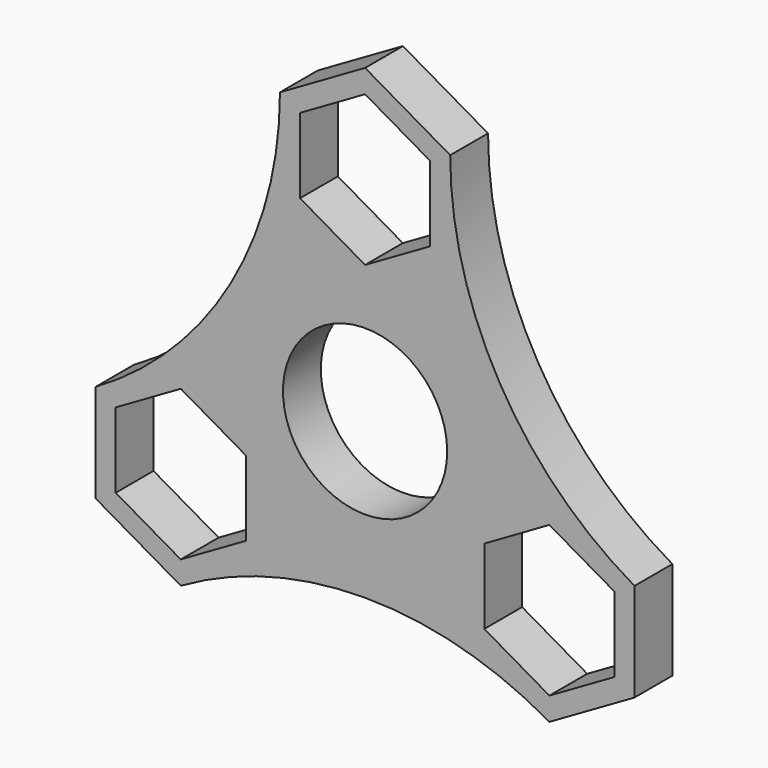
from build123d import *

# Parameters (mm, degrees)
F0_R     = 14.2875
F0_R_2   = 11.0236
F1_DEPTH = 6.35


with BuildPart() as f1:
    # F0 (on Front) → F1 (new body)
    with BuildSketch(Plane.XZ):
        with BuildLine():
            Line((0, 15.376773), (-11.43, 21.975886))
            Line((-11.43, 21.975886), (-11.43, 35.174114))
            ThreePointArc((-11.43, 35.174114), (-18.060852, 10.427438), (-36.176676, -7.688386))
            Line((-36.176676, -7.688386), (-24.746676, -1.089273))
            Line((-24.746676, -1.089273), (-13.316676, -7.688386))
            Line((-13.316676, -7.688386), (-13.316676, -20.886614))
            Line((-13.316676, -20.886614), (-24.746676, -27.485727))
            ThreePointArc((-24.746676, -27.485727), (0, -20.854875), (24.746676, -27.485727))
            Line((24.746676, -27.485727), (13.316676, -20.886614))
            Line((13.316676, -20.886614), (13.316676, -7.688386))
            Line((13.316676, -7.688386), (24.746676, -1.089273))
            Line((24.746676, -1.089273), (36.176676, -7.688386))
            ThreePointArc((36.176676, -7.688386), (18.060852, 10.427438), (11.43, 35.174114))
            Line((11.43, 35.174114), (11.43, 21.975886))
            Line((11.43, 21.975886), (0, 15.376773))
        make_face()
        Circle(F0_R, mode=Mode.SUBTRACT)
        Polygon((-11.43, 35.174114), (-11.43, 21.975886), (0, 15.376773), (11.43, 21.975886), (11.43, 35.174114), (0, 41.773227), align=None)
        Polygon((0, 18.485689), (-8.7376, 23.530344), (-8.7376, 33.619656), (0, 38.664311), (8.7376, 33.619656), (8.7376, 23.530344), align=None, mode=Mode.SUBTRACT)
        Polygon((-24.746676, -1.089273), (-36.176676, -7.688386), (-36.176676, -20.886614), (-24.746676, -27.485727), (-13.316676, -20.886614), (-13.316676, -7.688386), align=None)
        Polygon((-24.746676, -4.198189), (-16.009076, -9.242844), (-16.009076, -19.332156), (-24.746676, -24.376811), (-33.484276, -19.332156), (-33.484276, -9.242844), align=None, mode=Mode.SUBTRACT)
        Polygon((36.176676, -20.886614), (36.176676, -7.688386), (24.746676, -1.089273), (13.316676, -7.688386), (13.316676, -20.886614), (24.746676, -27.485727), align=None)
        Polygon((16.009076, -19.332156), (16.009076, -9.242844), (24.746676, -4.198189), (33.484276, -9.242844), (33.484276, -19.332156), (24.746676, -24.376811), align=None, mode=Mode.SUBTRACT)
        Circle(F0_R)
        Circle(F0_R_2, mode=Mode.SUBTRACT)
    extrude(amount=F1_DEPTH)


solid = f1.part
